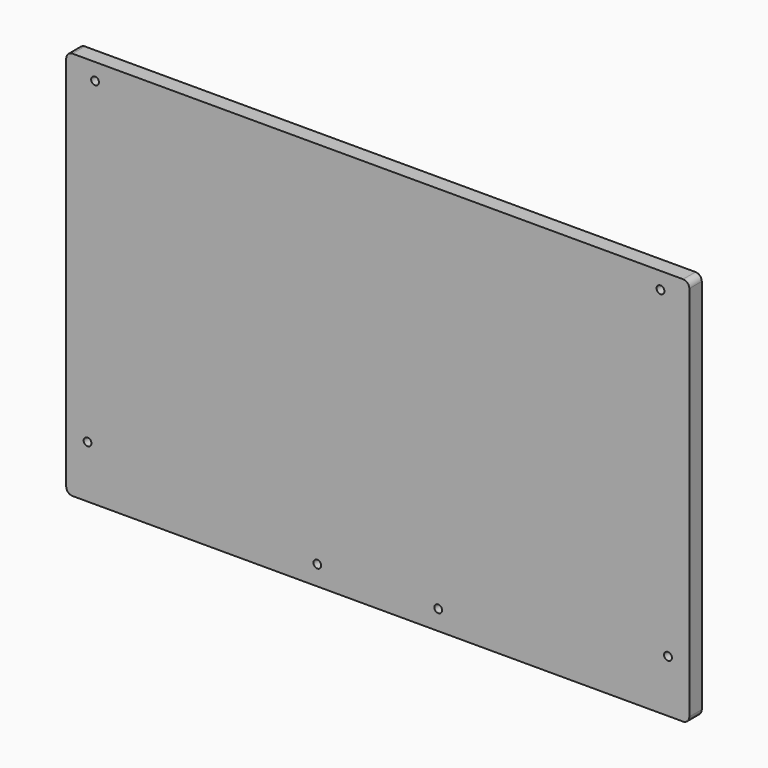
from build123d import *

# Parameters (mm, degrees)
F0_R     = 6.35
F1_DEPTH = 25.4


with BuildPart() as f1:
    # F0 (on Front) → F1 (new body)
    with BuildSketch(Plane.XZ):
        with BuildLine():
            Line((642.704073, 352.232811), (-352.975927, 352.232811))
            ThreePointArc((-352.975927, 352.232811), (-360.160132, 349.257016), (-363.135927, 342.072811))
            Line((-363.135927, 342.072811), (-363.135927, -272.607189))
            ThreePointArc((-363.135927, -272.607189), (-360.160132, -279.791394), (-352.975927, -282.767189))
            Line((-352.975927, -282.767189), (642.704073, -282.767189))
            ThreePointArc((642.704073, -282.767189), (649.888278, -279.791394), (652.864073, -272.607189))
            Line((652.864073, -272.607189), (652.864073, 342.072811))
            ThreePointArc((652.864073, 342.072811), (649.888278, 349.257016), (642.704073, 352.232811))
        make_face()
        with Locations((-328.337927, -197.169189)):
            Circle(F0_R, mode=Mode.SUBTRACT)
        with Locations((46.312073, -250.763189)):
            Circle(F0_R, mode=Mode.SUBTRACT)
        with Locations((243.416073, -250.763189)):
            Circle(F0_R, mode=Mode.SUBTRACT)
        with Locations((618.066073, -197.169189)):
            Circle(F0_R, mode=Mode.SUBTRACT)
        with Locations((-316.145927, 325.054811)):
            Circle(F0_R, mode=Mode.SUBTRACT)
        with Locations((605.874073, 325.054811)):
            Circle(F0_R, mode=Mode.SUBTRACT)
    extrude(amount=F1_DEPTH)


solid = f1.part
